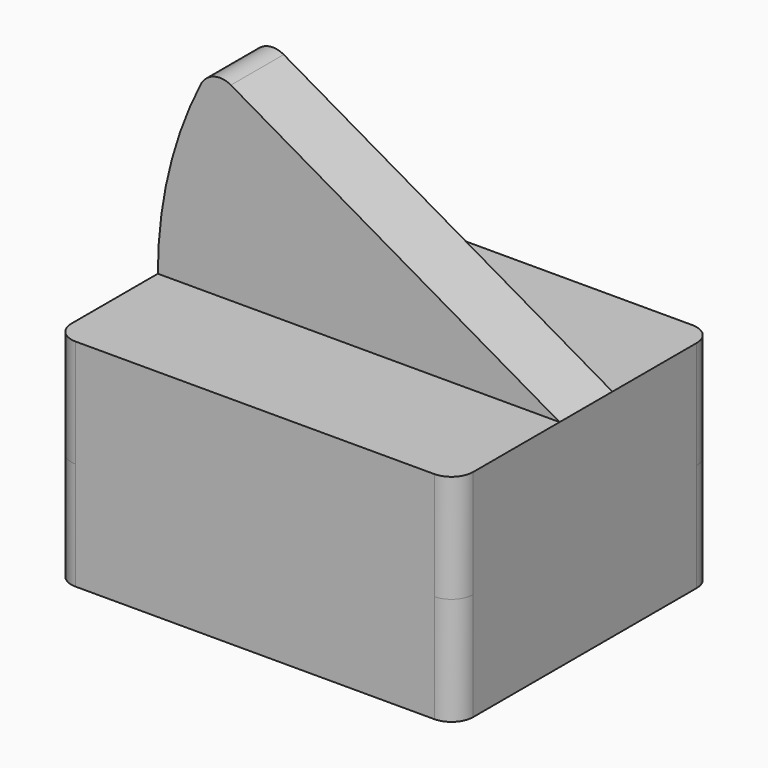
from build123d import *

# Parameters (mm, degrees)
F0_W     = 94.5846885443
F0_H     = 28.4219961613
F0_H_2   = 24.2285877466
F0_H_3   = 23.2967082411
F1_DEPTH = 25.4
F2_W     = 94.5846885443
F2_H     = 15.5447232537
F3_ANGLE = 30
F4_R     = 5.08
F5_R     = 5.08
F6_R     = 5.08
F7_R     = 7.7354958654
F7_R_2   = 9.827935595
F7_R_3   = 7.966520615
F7_R_4   = 8.8977236071
F8_DEPTH = 25.4


with BuildPart() as f1:
    # F0 (on Top) → F1 (new body)
    with BuildSketch(Plane.XY):
        with Locations((0, 0.4659397528)):
            Rectangle(F0_W, F0_H)
        with Locations((0, -25.8593522012)):
            Rectangle(F0_W, F0_H_2)
        with Locations((0, 26.325291954)):
            Rectangle(F0_W, F0_H_3)
    extrude(amount=F1_DEPTH)

    # F2 (on face) → F3 (revolve)
    with BuildSketch(Plane.XY.offset(25.4)):
        with Locations((0, 0.3310537431)):
            Rectangle(F2_W, F2_H)
    revolve(axis=Axis((47.2923442721, 0.3310537431, 25.4), (0, 1, 0)), revolution_arc=F3_ANGLE)

    # F4
    f4_edges = [f1.edges().sort_by_distance(p)[0] for p in [
        (-47.292344, -37.973646, 12.7),
        (47.292344, -37.973646, 12.7),
    ]]
    fillet(f4_edges, radius=F4_R)

    # F5
    f5_edges = [f1.edges().sort_by_distance(p)[0] for p in [
        (47.292344, 37.973646, 12.7),
    ]]
    fillet(f5_edges, radius=F5_R)

    # F6
    f6_edges = [f1.edges().sort_by_distance(p)[0] for p in [
        (-47.292344, 37.973646, 12.7),
        (-34.620399, 0.331054, 72.692344),
    ]]
    fillet(f6_edges, radius=F6_R)

    # F7 (on face) → F8 (join)
    with BuildSketch(Plane(origin=(0, 0, 0), x_dir=(1, 0, 0), z_dir=(0, 0, -1))):
        with BuildLine():
            ThreePointArc((-47.2923442721, -32.8936460745), (-45.8044467206, -36.485748523), (-42.2123442721, -37.9736460745))
            Line((-42.2123442721, -37.9736460745), (42.2123442721, -37.9736460745))
            ThreePointArc((42.2123442721, -37.9736460745), (45.8044467206, -36.485748523), (47.2923442721, -32.8936460745))
            Line((47.2923442721, -32.8936460745), (47.2923442721, 32.8936460745))
            ThreePointArc((47.2923442721, 32.8936460745), (45.8044467206, 36.485748523), (42.2123442721, 37.9736460745))
            Line((42.2123442721, 37.9736460745), (-42.2123442721, 37.9736460745))
            ThreePointArc((-42.2123442721, 37.9736460745), (-45.8044467206, 36.485748523), (-47.2923442721, 32.8936460745))
            Line((-47.2923442721, 32.8936460745), (-47.2923442721, -32.8936460745))
        make_face()
        with Locations((-37.3279750347, -27.9809720814)):
            Circle(F7_R, mode=Mode.SUBTRACT)
        with Locations((33.9089371264, -25.3520905972)):
            Circle(F7_R_2, mode=Mode.SUBTRACT)
        with Locations((-35.1918712258, 28.0274003744)):
            Circle(F7_R_3, mode=Mode.SUBTRACT)
        with Locations((35.1046472788, 27.1290969104)):
            Circle(F7_R_4, mode=Mode.SUBTRACT)
    extrude(amount=F8_DEPTH)


solid = f1.part
